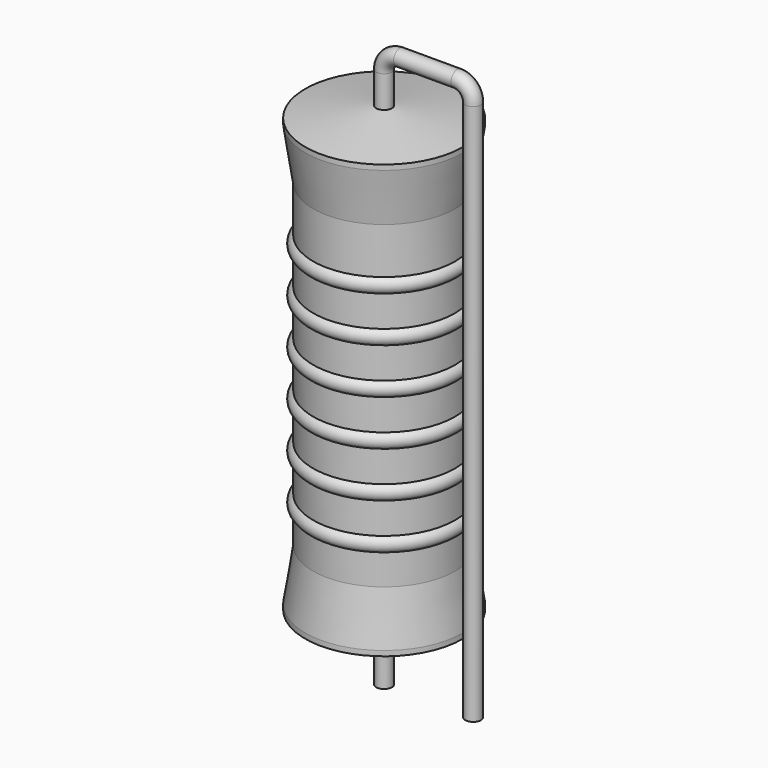
from build123d import *

# Parameters (mm, degrees)
SKETCH_R = 0.45


with BuildPart() as revolution:
    # Sketch002 → Revolution (revolve)
    with BuildSketch(Plane.XZ):
        Polygon((0, 0.1), (0, 26.1), (0.3375, 26.1), (4.5, 25.45), (4.5, 25.1575), (4.05, 22.2), (4.05, 4), (4.5, 1.0425), (4.5, 0.75), (0.3375, 0.1), align=None)
    revolve(axis=Axis((0, 0, 0), (0, 0, 1)))


with BuildPart() as sweep_body:
    # Sweep: sweep along a path in Sketch001
    with BuildLine(Plane.XZ) as sweep_path:
        Line((0, -3), (0, 27.9))
        ThreePointArc((0, 27.9), (0.2636, 28.536392), (0.89999, 28.8))
        Line((0.89999, 28.8), (4.18, 28.8))
        ThreePointArc((4.18, 28.8), (4.816396, 28.536396), (5.08, 27.9))
        Line((5.08, 27.9), (5.08, -3))
    # Sketch → Sweep (sweep)
    with BuildSketch(Plane.XY.offset(-2)):
        Circle(SKETCH_R)
    sweep(path=sweep_path.line)


with BuildPart() as obj1:
    # Sketch003 → Revolution001 (revolve)
    with BuildSketch(Plane.XZ):
        with BuildLine():
            Line((3.6, 21.3), (3.6, 4))
            Line((3.6, 4), (3.87, 4))
            Line((3.87, 4), (3.87, 5.7))
            ThreePointArc((3.87, 5.7), (4.32, 6.15), (3.87, 6.6))
            Line((3.87, 6.6), (3.87, 8.3))
            ThreePointArc((3.87, 8.3), (4.32, 8.75), (3.87, 9.2))
            Line((3.87, 9.2), (3.87, 10.9))
            ThreePointArc((3.87, 10.9), (4.32, 11.35), (3.87, 11.8))
            Line((3.87, 11.8), (3.87, 13.5))
            ThreePointArc((3.87, 13.5), (4.32, 13.95), (3.87, 14.4))
            Line((3.87, 14.4), (3.87, 16.1))
            ThreePointArc((3.87, 16.1), (4.32, 16.55), (3.87, 17))
            Line((3.87, 17), (3.87, 18.7))
            ThreePointArc((3.87, 18.7), (4.32, 19.15), (3.87, 19.6))
            Line((3.87, 21.3), (3.87, 19.6))
            Line((3.6, 21.3), (3.87, 21.3))
        make_face()
    revolve(axis=Axis((0, 0, 0), (0, 0, 1)))

    # obj1: union Revolution, Sweep body
    add(revolution.part)
    add(sweep_body.part)


solid = obj1.part
